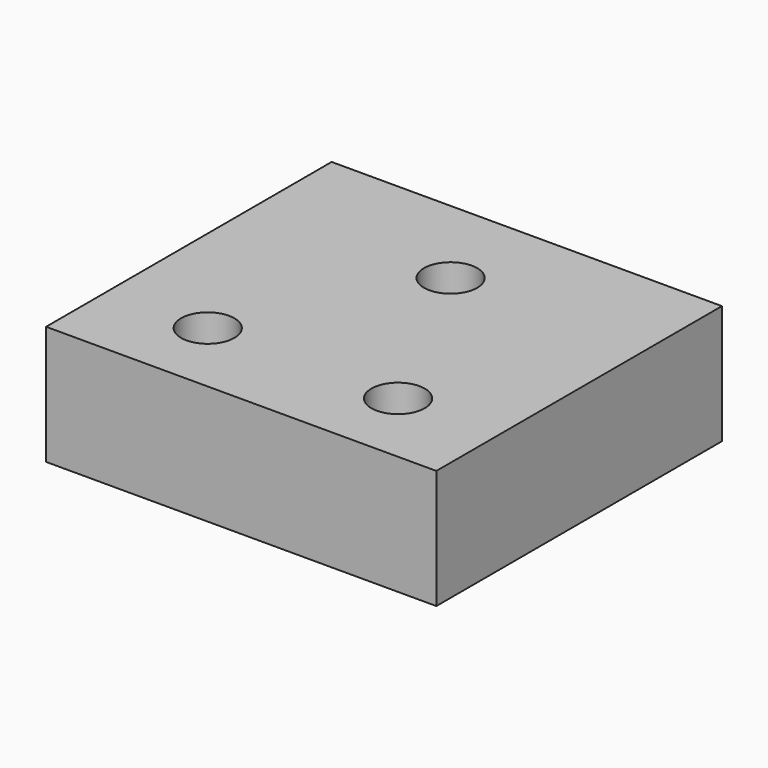
from build123d import *

# Parameters (mm, degrees)
F0_W     = 20.828
F0_H     = 19.05
F0_R     = 1.4224
F1_DEPTH = 6.35


with BuildPart() as f1:
    # F0 (on Top) → F1 (new body)
    with BuildSketch(Plane.XY):
        with Locations((10.414, 9.525)):
            Rectangle(F0_W, F0_H)
        with Locations((5.334, 4.1148)):
            Circle(F0_R, mode=Mode.SUBTRACT)
        with Locations((15.494, 4.1148)):
            Circle(F0_R, mode=Mode.SUBTRACT)
        with Locations((10.414, 13.97)):
            Circle(F0_R, mode=Mode.SUBTRACT)
    extrude(amount=F1_DEPTH)


solid = f1.part
